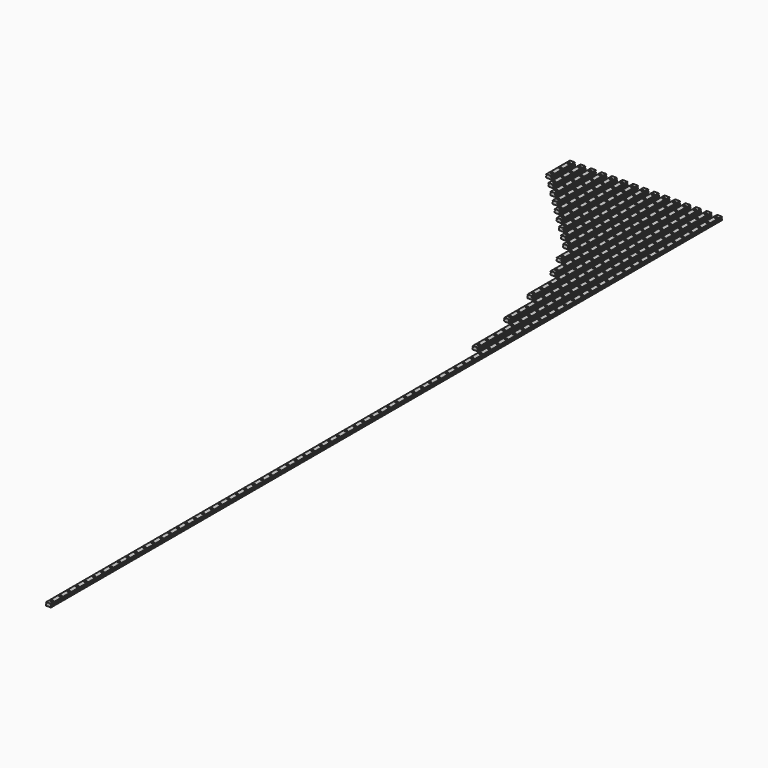
from build123d import *

# Parameters (mm, degrees)
F1_DEPTH           = 70
F2_DEPTH           = 95
F3_DEPTH           = 120
F4_DEPTH           = 145
F5_DEPTH           = 170
F6_DEPTH           = 195
F7_DEPTH           = 220
F8_DEPTH           = 245
F9_DEPTH           = 270
F10_DEPTH          = 320
F11_DEPTH          = 370
F12_DEPTH          = 470
F13_DEPTH          = 570
F14_DEPTH          = 695
F15_DEPTH          = 1995
F17_D              = 3.5
F17_CBORE_D        = 6
F17_CBORE_DEPTH    = 4.5
F17_2_D            = 3.5
F17_2_CBORE_D      = 6
F17_2_CBORE_DEPTH  = 4.5
F17_3_D            = 3.5
F17_3_CBORE_D      = 6
F17_3_CBORE_DEPTH  = 4.5
F17_4_D            = 3.5
F17_4_CBORE_D      = 6
F17_4_CBORE_DEPTH  = 4.5
F17_5_D            = 3.5
F17_5_CBORE_D      = 6
F17_5_CBORE_DEPTH  = 4.5
F17_6_D            = 3.5
F17_6_CBORE_D      = 6
F17_6_CBORE_DEPTH  = 4.5
F17_7_D            = 3.5
F17_7_CBORE_D      = 6
F17_7_CBORE_DEPTH  = 4.5
F17_8_D            = 3.5
F17_8_CBORE_D      = 6
F17_8_CBORE_DEPTH  = 4.5
F17_9_D            = 3.5
F17_9_CBORE_D      = 6
F17_9_CBORE_DEPTH  = 4.5
F17_10_D           = 3.5
F17_10_CBORE_D     = 6
F17_10_CBORE_DEPTH = 4.5
F18_D              = 3.5
F18_CBORE_D        = 6
F18_CBORE_DEPTH    = 4.5
F18_2_D            = 3.5
F18_2_CBORE_D      = 6
F18_2_CBORE_DEPTH  = 4.5
F18_3_D            = 3.5
F18_3_CBORE_D      = 6
F18_3_CBORE_DEPTH  = 4.5
F18_4_D            = 3.5
F18_4_CBORE_D      = 6
F18_4_CBORE_DEPTH  = 4.5
F19_D              = 3.5
F19_CBORE_D        = 6
F19_CBORE_DEPTH    = 4.5


with BuildPart() as f1:
    # F0 (on Front) → F1 (new body)
    with BuildSketch(Plane.XZ):
        with BuildLine():
            Line((-5.505025, -4), (5.505025, -4))
            Line((5.505025, -4), (6, -3.505025))
            Line((6, -3.505025), (6, -0.029885))
            ThreePointArc((6, -0.029885), (5.490975, 0.268452), (5.150061, 0.75))
            Line((5.150061, 0.75), (4.45, 0.75))
            Line((4.45, 0.75), (4.45, 1.85))
            Line((4.45, 1.85), (5.150061, 1.85))
            ThreePointArc((5.150061, 1.85), (5.490975, 2.331548), (6, 2.629885))
            Line((6, 2.629885), (6, 3.505025))
            Line((6, 3.505025), (5.505025, 4))
            Line((5.505025, 4), (-5.505025, 4))
            Line((-5.505025, 4), (-6, 3.505025))
            Line((-6, 3.505025), (-6, 2.629885))
            ThreePointArc((-6, 2.629885), (-5.490975, 2.331548), (-5.150061, 1.85))
            Line((-5.150061, 1.85), (-4.45, 1.85))
            Line((-4.45, 1.85), (-4.45, 0.75))
            Line((-4.45, 0.75), (-5.150061, 0.75))
            ThreePointArc((-5.150061, 0.75), (-5.490975, 0.268452), (-6, -0.029885))
            Line((-6, -0.029885), (-6, -3.505025))
            Line((-6, -3.505025), (-5.505025, -4))
        make_face()
    extrude(amount=F1_DEPTH)

    # F17 (through all)
    with Locations(Plane.XY.offset(4)):
        with Locations((150, -10), (225, -35), (225, -10), (225, -60), (50, -60), (25, -10), (125, -60), (200, -10), (75, -10), (175, -35), (25, -60), (0, -35), (175, -10), (200, -35), (200, -60), (75, -60), (150, -60), (50, -35), (100, -10), (150, -35), (25, -35), (175, -60), (0, -10), (125, -35), (50, -10), (125, -10), (100, -35), (75, -35), (0, -60), (100, -60), (150, -85), (100, -85), (225, -85), (175, -85), (75, -85), (125, -85), (25, -85), (200, -85), (50, -85), (50, -110), (225, -110), (225, -135), (200, -110), (125, -110), (75, -110), (100, -135), (150, -135), (125, -135), (175, -135), (100, -110), (200, -135), (75, -135), (175, -110), (150, -110), (200, -160), (150, -160), (125, -160), (175, -160), (100, -160), (225, -160), (175, -185), (200, -185), (150, -185), (125, -185), (225, -185), (200, -260), (225, -310), (225, -260), (225, -285), (150, -210), (200, -235), (225, -210), (225, -235), (200, -210), (175, -235), (175, -210)):
            CounterBoreHole(F17_D / 2, F17_CBORE_D / 2, F17_CBORE_DEPTH)


with BuildPart() as f2:
    # F0 (on Front) → F2 (new body)
    with BuildSketch(Plane.XZ):
        with BuildLine():
            Line((19, -0.029885), (19, -3.505025))
            Line((19, -3.505025), (19.494975, -4))
            Line((19.494975, -4), (30.505025, -4))
            Line((30.505025, -4), (31, -3.505025))
            Line((31, -3.505025), (31, -0.029885))
            ThreePointArc((31, -0.029885), (30.490975, 0.268452), (30.150061, 0.75))
            Line((30.150061, 0.75), (29.45, 0.75))
            Line((29.45, 0.75), (29.45, 1.85))
            Line((29.45, 1.85), (30.150061, 1.85))
            ThreePointArc((30.150061, 1.85), (30.490975, 2.331548), (31, 2.629885))
            Line((31, 2.629885), (31, 3.505025))
            Line((31, 3.505025), (30.505025, 4))
            Line((30.505025, 4), (19.494975, 4))
            Line((19.494975, 4), (19, 3.505025))
            Line((19, 3.505025), (19, 2.629885))
            ThreePointArc((19, 2.629885), (19.509025, 2.331548), (19.849939, 1.85))
            Line((19.849939, 1.85), (20.55, 1.85))
            Line((20.55, 1.85), (20.55, 0.75))
            Line((20.55, 0.75), (19.849939, 0.75))
            ThreePointArc((19.849939, 0.75), (19.509025, 0.268452), (19, -0.029885))
        make_face()
    extrude(amount=F2_DEPTH)

    # F17#2 (through all)
    with Locations(Plane.XY.offset(4)):
        with Locations((150, -10), (225, -35), (225, -10), (225, -60), (50, -60), (25, -10), (125, -60), (200, -10), (75, -10), (175, -35), (25, -60), (0, -35), (175, -10), (200, -35), (200, -60), (75, -60), (150, -60), (50, -35), (100, -10), (150, -35), (25, -35), (175, -60), (0, -10), (125, -35), (50, -10), (125, -10), (100, -35), (75, -35), (0, -60), (100, -60), (150, -85), (100, -85), (225, -85), (175, -85), (75, -85), (125, -85), (25, -85), (200, -85), (50, -85), (50, -110), (225, -110), (225, -135), (200, -110), (125, -110), (75, -110), (100, -135), (150, -135), (125, -135), (175, -135), (100, -110), (200, -135), (75, -135), (175, -110), (150, -110), (200, -160), (150, -160), (125, -160), (175, -160), (100, -160), (225, -160), (175, -185), (200, -185), (150, -185), (125, -185), (225, -185), (200, -260), (225, -310), (225, -260), (225, -285), (150, -210), (200, -235), (225, -210), (225, -235), (200, -210), (175, -235), (175, -210)):
            CounterBoreHole(F17_2_D / 2, F17_2_CBORE_D / 2, F17_2_CBORE_DEPTH)


with BuildPart() as f3:
    # F0 (on Front) → F3 (new body)
    with BuildSketch(Plane.XZ):
        with BuildLine():
            Line((44, -0.029885), (44, -3.505025))
            Line((44, -3.505025), (44.494975, -4))
            Line((44.494975, -4), (55.505025, -4))
            Line((55.505025, -4), (56, -3.505025))
            Line((56, -3.505025), (56, -0.029885))
            ThreePointArc((56, -0.029885), (55.490975, 0.268452), (55.150061, 0.75))
            Line((55.150061, 0.75), (54.45, 0.75))
            Line((54.45, 0.75), (54.45, 1.85))
            Line((54.45, 1.85), (55.150061, 1.85))
            ThreePointArc((55.150061, 1.85), (55.490975, 2.331548), (56, 2.629885))
            Line((56, 2.629885), (56, 3.505025))
            Line((56, 3.505025), (55.505025, 4))
            Line((55.505025, 4), (44.494975, 4))
            Line((44.494975, 4), (44, 3.505025))
            Line((44, 3.505025), (44, 2.629885))
            ThreePointArc((44, 2.629885), (44.509025, 2.331548), (44.849939, 1.85))
            Line((44.849939, 1.85), (45.55, 1.85))
            Line((45.55, 1.85), (45.55, 0.75))
            Line((45.55, 0.75), (44.849939, 0.75))
            ThreePointArc((44.849939, 0.75), (44.509025, 0.268452), (44, -0.029885))
        make_face()
    extrude(amount=F3_DEPTH)

    # F17#3 (through all)
    with Locations(Plane.XY.offset(4)):
        with Locations((150, -10), (225, -35), (225, -10), (225, -60), (50, -60), (25, -10), (125, -60), (200, -10), (75, -10), (175, -35), (25, -60), (0, -35), (175, -10), (200, -35), (200, -60), (75, -60), (150, -60), (50, -35), (100, -10), (150, -35), (25, -35), (175, -60), (0, -10), (125, -35), (50, -10), (125, -10), (100, -35), (75, -35), (0, -60), (100, -60), (150, -85), (100, -85), (225, -85), (175, -85), (75, -85), (125, -85), (25, -85), (200, -85), (50, -85), (50, -110), (225, -110), (225, -135), (200, -110), (125, -110), (75, -110), (100, -135), (150, -135), (125, -135), (175, -135), (100, -110), (200, -135), (75, -135), (175, -110), (150, -110), (200, -160), (150, -160), (125, -160), (175, -160), (100, -160), (225, -160), (175, -185), (200, -185), (150, -185), (125, -185), (225, -185), (200, -260), (225, -310), (225, -260), (225, -285), (150, -210), (200, -235), (225, -210), (225, -235), (200, -210), (175, -235), (175, -210)):
            CounterBoreHole(F17_3_D / 2, F17_3_CBORE_D / 2, F17_3_CBORE_DEPTH)


with BuildPart() as f4:
    # F0 (on Front) → F4 (new body)
    with BuildSketch(Plane.XZ):
        with BuildLine():
            Line((69, -0.029885), (69, -3.505025))
            Line((69, -3.505025), (69.494975, -4))
            Line((69.494975, -4), (80.505025, -4))
            Line((80.505025, -4), (81, -3.505025))
            Line((81, -3.505025), (81, -0.029885))
            ThreePointArc((81, -0.029885), (80.490975, 0.268452), (80.150061, 0.75))
            Line((80.150061, 0.75), (79.45, 0.75))
            Line((79.45, 0.75), (79.45, 1.85))
            Line((79.45, 1.85), (80.150061, 1.85))
            ThreePointArc((80.150061, 1.85), (80.490975, 2.331548), (81, 2.629885))
            Line((81, 2.629885), (81, 3.505025))
            Line((81, 3.505025), (80.505025, 4))
            Line((80.505025, 4), (69.494975, 4))
            Line((69.494975, 4), (69, 3.505025))
            Line((69, 3.505025), (69, 2.629885))
            ThreePointArc((69, 2.629885), (69.509025, 2.331548), (69.849939, 1.85))
            Line((69.849939, 1.85), (70.55, 1.85))
            Line((70.55, 1.85), (70.55, 0.75))
            Line((70.55, 0.75), (69.849939, 0.75))
            ThreePointArc((69.849939, 0.75), (69.509025, 0.268452), (69, -0.029885))
        make_face()
    extrude(amount=F4_DEPTH)

    # F17#4 (through all)
    with Locations(Plane.XY.offset(4)):
        with Locations((150, -10), (225, -35), (225, -10), (225, -60), (50, -60), (25, -10), (125, -60), (200, -10), (75, -10), (175, -35), (25, -60), (0, -35), (175, -10), (200, -35), (200, -60), (75, -60), (150, -60), (50, -35), (100, -10), (150, -35), (25, -35), (175, -60), (0, -10), (125, -35), (50, -10), (125, -10), (100, -35), (75, -35), (0, -60), (100, -60), (150, -85), (100, -85), (225, -85), (175, -85), (75, -85), (125, -85), (25, -85), (200, -85), (50, -85), (50, -110), (225, -110), (225, -135), (200, -110), (125, -110), (75, -110), (100, -135), (150, -135), (125, -135), (175, -135), (100, -110), (200, -135), (75, -135), (175, -110), (150, -110), (200, -160), (150, -160), (125, -160), (175, -160), (100, -160), (225, -160), (175, -185), (200, -185), (150, -185), (125, -185), (225, -185), (200, -260), (225, -310), (225, -260), (225, -285), (150, -210), (200, -235), (225, -210), (225, -235), (200, -210), (175, -235), (175, -210)):
            CounterBoreHole(F17_4_D / 2, F17_4_CBORE_D / 2, F17_4_CBORE_DEPTH)


with BuildPart() as f5:
    # F0 (on Front) → F5 (new body)
    with BuildSketch(Plane.XZ):
        with BuildLine():
            Line((94, -0.029885), (94, -3.505025))
            Line((94, -3.505025), (94.494975, -4))
            Line((94.494975, -4), (105.505025, -4))
            Line((105.505025, -4), (106, -3.505025))
            Line((106, -3.505025), (106, -0.029885))
            ThreePointArc((106, -0.029885), (105.490975, 0.268452), (105.150061, 0.75))
            Line((105.150061, 0.75), (104.45, 0.75))
            Line((104.45, 0.75), (104.45, 1.85))
            Line((104.45, 1.85), (105.150061, 1.85))
            ThreePointArc((105.150061, 1.85), (105.490975, 2.331548), (106, 2.629885))
            Line((106, 2.629885), (106, 3.505025))
            Line((106, 3.505025), (105.505025, 4))
            Line((105.505025, 4), (94.494975, 4))
            Line((94.494975, 4), (94, 3.505025))
            Line((94, 3.505025), (94, 2.629885))
            ThreePointArc((94, 2.629885), (94.509025, 2.331548), (94.849939, 1.85))
            Line((94.849939, 1.85), (95.55, 1.85))
            Line((95.55, 1.85), (95.55, 0.75))
            Line((95.55, 0.75), (94.849939, 0.75))
            ThreePointArc((94.849939, 0.75), (94.509025, 0.268452), (94, -0.029885))
        make_face()
    extrude(amount=F5_DEPTH)

    # F17#5 (through all)
    with Locations(Plane.XY.offset(4)):
        with Locations((150, -10), (225, -35), (225, -10), (225, -60), (50, -60), (25, -10), (125, -60), (200, -10), (75, -10), (175, -35), (25, -60), (0, -35), (175, -10), (200, -35), (200, -60), (75, -60), (150, -60), (50, -35), (100, -10), (150, -35), (25, -35), (175, -60), (0, -10), (125, -35), (50, -10), (125, -10), (100, -35), (75, -35), (0, -60), (100, -60), (150, -85), (100, -85), (225, -85), (175, -85), (75, -85), (125, -85), (25, -85), (200, -85), (50, -85), (50, -110), (225, -110), (225, -135), (200, -110), (125, -110), (75, -110), (100, -135), (150, -135), (125, -135), (175, -135), (100, -110), (200, -135), (75, -135), (175, -110), (150, -110), (200, -160), (150, -160), (125, -160), (175, -160), (100, -160), (225, -160), (175, -185), (200, -185), (150, -185), (125, -185), (225, -185), (200, -260), (225, -310), (225, -260), (225, -285), (150, -210), (200, -235), (225, -210), (225, -235), (200, -210), (175, -235), (175, -210)):
            CounterBoreHole(F17_5_D / 2, F17_5_CBORE_D / 2, F17_5_CBORE_DEPTH)


with BuildPart() as f6:
    # F0 (on Front) → F6 (new body)
    with BuildSketch(Plane.XZ):
        with BuildLine():
            Line((119, -0.029885), (119, -3.505025))
            Line((119, -3.505025), (119.494975, -4))
            Line((119.494975, -4), (130.505025, -4))
            Line((130.505025, -4), (131, -3.505025))
            Line((131, -3.505025), (131, -0.029885))
            ThreePointArc((131, -0.029885), (130.490975, 0.268452), (130.150061, 0.75))
            Line((130.150061, 0.75), (129.45, 0.75))
            Line((129.45, 0.75), (129.45, 1.85))
            Line((129.45, 1.85), (130.150061, 1.85))
            ThreePointArc((130.150061, 1.85), (130.490975, 2.331548), (131, 2.629885))
            Line((131, 2.629885), (131, 3.505025))
            Line((131, 3.505025), (130.505025, 4))
            Line((130.505025, 4), (119.494975, 4))
            Line((119.494975, 4), (119, 3.505025))
            Line((119, 3.505025), (119, 2.629885))
            ThreePointArc((119, 2.629885), (119.509025, 2.331548), (119.849939, 1.85))
            Line((119.849939, 1.85), (120.55, 1.85))
            Line((120.55, 1.85), (120.55, 0.75))
            Line((120.55, 0.75), (119.849939, 0.75))
            ThreePointArc((119.849939, 0.75), (119.509025, 0.268452), (119, -0.029885))
        make_face()
    extrude(amount=F6_DEPTH)

    # F17#6 (through all)
    with Locations(Plane.XY.offset(4)):
        with Locations((150, -10), (225, -35), (225, -10), (225, -60), (50, -60), (25, -10), (125, -60), (200, -10), (75, -10), (175, -35), (25, -60), (0, -35), (175, -10), (200, -35), (200, -60), (75, -60), (150, -60), (50, -35), (100, -10), (150, -35), (25, -35), (175, -60), (0, -10), (125, -35), (50, -10), (125, -10), (100, -35), (75, -35), (0, -60), (100, -60), (150, -85), (100, -85), (225, -85), (175, -85), (75, -85), (125, -85), (25, -85), (200, -85), (50, -85), (50, -110), (225, -110), (225, -135), (200, -110), (125, -110), (75, -110), (100, -135), (150, -135), (125, -135), (175, -135), (100, -110), (200, -135), (75, -135), (175, -110), (150, -110), (200, -160), (150, -160), (125, -160), (175, -160), (100, -160), (225, -160), (175, -185), (200, -185), (150, -185), (125, -185), (225, -185), (200, -260), (225, -310), (225, -260), (225, -285), (150, -210), (200, -235), (225, -210), (225, -235), (200, -210), (175, -235), (175, -210)):
            CounterBoreHole(F17_6_D / 2, F17_6_CBORE_D / 2, F17_6_CBORE_DEPTH)


with BuildPart() as f7:
    # F0 (on Front) → F7 (new body)
    with BuildSketch(Plane.XZ):
        with BuildLine():
            Line((144, -0.029885), (144, -3.505025))
            Line((144, -3.505025), (144.494975, -4))
            Line((144.494975, -4), (155.505025, -4))
            Line((155.505025, -4), (156, -3.505025))
            Line((156, -3.505025), (156, -0.029885))
            ThreePointArc((156, -0.029885), (155.490975, 0.268452), (155.150061, 0.75))
            Line((155.150061, 0.75), (154.45, 0.75))
            Line((154.45, 0.75), (154.45, 1.85))
            Line((154.45, 1.85), (155.150061, 1.85))
            ThreePointArc((155.150061, 1.85), (155.490975, 2.331548), (156, 2.629885))
            Line((156, 2.629885), (156, 3.505025))
            Line((156, 3.505025), (155.505025, 4))
            Line((155.505025, 4), (144.494975, 4))
            Line((144.494975, 4), (144, 3.505025))
            Line((144, 3.505025), (144, 2.629885))
            ThreePointArc((144, 2.629885), (144.509025, 2.331548), (144.849939, 1.85))
            Line((144.849939, 1.85), (145.55, 1.85))
            Line((145.55, 1.85), (145.55, 0.75))
            Line((145.55, 0.75), (144.849939, 0.75))
            ThreePointArc((144.849939, 0.75), (144.509025, 0.268452), (144, -0.029885))
        make_face()
    extrude(amount=F7_DEPTH)

    # F17#7 (through all)
    with Locations(Plane.XY.offset(4)):
        with Locations((150, -10), (225, -35), (225, -10), (225, -60), (50, -60), (25, -10), (125, -60), (200, -10), (75, -10), (175, -35), (25, -60), (0, -35), (175, -10), (200, -35), (200, -60), (75, -60), (150, -60), (50, -35), (100, -10), (150, -35), (25, -35), (175, -60), (0, -10), (125, -35), (50, -10), (125, -10), (100, -35), (75, -35), (0, -60), (100, -60), (150, -85), (100, -85), (225, -85), (175, -85), (75, -85), (125, -85), (25, -85), (200, -85), (50, -85), (50, -110), (225, -110), (225, -135), (200, -110), (125, -110), (75, -110), (100, -135), (150, -135), (125, -135), (175, -135), (100, -110), (200, -135), (75, -135), (175, -110), (150, -110), (200, -160), (150, -160), (125, -160), (175, -160), (100, -160), (225, -160), (175, -185), (200, -185), (150, -185), (125, -185), (225, -185), (200, -260), (225, -310), (225, -260), (225, -285), (150, -210), (200, -235), (225, -210), (225, -235), (200, -210), (175, -235), (175, -210)):
            CounterBoreHole(F17_7_D / 2, F17_7_CBORE_D / 2, F17_7_CBORE_DEPTH)


with BuildPart() as f8:
    # F0 (on Front) → F8 (new body)
    with BuildSketch(Plane.XZ):
        with BuildLine():
            Line((169, -0.029885), (169, -3.505025))
            Line((169, -3.505025), (169.494975, -4))
            Line((169.494975, -4), (180.505025, -4))
            Line((180.505025, -4), (181, -3.505025))
            Line((181, -3.505025), (181, -0.029885))
            ThreePointArc((181, -0.029885), (180.490975, 0.268452), (180.150061, 0.75))
            Line((180.150061, 0.75), (179.45, 0.75))
            Line((179.45, 0.75), (179.45, 1.85))
            Line((179.45, 1.85), (180.150061, 1.85))
            ThreePointArc((180.150061, 1.85), (180.490975, 2.331548), (181, 2.629885))
            Line((181, 2.629885), (181, 3.505025))
            Line((181, 3.505025), (180.505025, 4))
            Line((180.505025, 4), (169.494975, 4))
            Line((169.494975, 4), (169, 3.505025))
            Line((169, 3.505025), (169, 2.629885))
            ThreePointArc((169, 2.629885), (169.509025, 2.331548), (169.849939, 1.85))
            Line((169.849939, 1.85), (170.55, 1.85))
            Line((170.55, 1.85), (170.55, 0.75))
            Line((170.55, 0.75), (169.849939, 0.75))
            ThreePointArc((169.849939, 0.75), (169.509025, 0.268452), (169, -0.029885))
        make_face()
    extrude(amount=F8_DEPTH)

    # F17#8 (through all)
    with Locations(Plane.XY.offset(4)):
        with Locations((150, -10), (225, -35), (225, -10), (225, -60), (50, -60), (25, -10), (125, -60), (200, -10), (75, -10), (175, -35), (25, -60), (0, -35), (175, -10), (200, -35), (200, -60), (75, -60), (150, -60), (50, -35), (100, -10), (150, -35), (25, -35), (175, -60), (0, -10), (125, -35), (50, -10), (125, -10), (100, -35), (75, -35), (0, -60), (100, -60), (150, -85), (100, -85), (225, -85), (175, -85), (75, -85), (125, -85), (25, -85), (200, -85), (50, -85), (50, -110), (225, -110), (225, -135), (200, -110), (125, -110), (75, -110), (100, -135), (150, -135), (125, -135), (175, -135), (100, -110), (200, -135), (75, -135), (175, -110), (150, -110), (200, -160), (150, -160), (125, -160), (175, -160), (100, -160), (225, -160), (175, -185), (200, -185), (150, -185), (125, -185), (225, -185), (200, -260), (225, -310), (225, -260), (225, -285), (150, -210), (200, -235), (225, -210), (225, -235), (200, -210), (175, -235), (175, -210)):
            CounterBoreHole(F17_8_D / 2, F17_8_CBORE_D / 2, F17_8_CBORE_DEPTH)


with BuildPart() as f9:
    # F0 (on Front) → F9 (new body)
    with BuildSketch(Plane.XZ):
        with BuildLine():
            Line((194, -0.029885), (194, -3.505025))
            Line((194, -3.505025), (194.494975, -4))
            Line((194.494975, -4), (205.505025, -4))
            Line((205.505025, -4), (206, -3.505025))
            Line((206, -3.505025), (206, -0.029885))
            ThreePointArc((206, -0.029885), (205.490975, 0.268452), (205.150061, 0.75))
            Line((205.150061, 0.75), (204.45, 0.75))
            Line((204.45, 0.75), (204.45, 1.85))
            Line((204.45, 1.85), (205.150061, 1.85))
            ThreePointArc((205.150061, 1.85), (205.490975, 2.331548), (206, 2.629885))
            Line((206, 2.629885), (206, 3.505025))
            Line((206, 3.505025), (205.505025, 4))
            Line((205.505025, 4), (194.494975, 4))
            Line((194.494975, 4), (194, 3.505025))
            Line((194, 3.505025), (194, 2.629885))
            ThreePointArc((194, 2.629885), (194.509025, 2.331548), (194.849939, 1.85))
            Line((194.849939, 1.85), (195.55, 1.85))
            Line((195.55, 1.85), (195.55, 0.75))
            Line((195.55, 0.75), (194.849939, 0.75))
            ThreePointArc((194.849939, 0.75), (194.509025, 0.268452), (194, -0.029885))
        make_face()
    extrude(amount=F9_DEPTH)

    # F17#9 (through all)
    with Locations(Plane.XY.offset(4)):
        with Locations((150, -10), (225, -35), (225, -10), (225, -60), (50, -60), (25, -10), (125, -60), (200, -10), (75, -10), (175, -35), (25, -60), (0, -35), (175, -10), (200, -35), (200, -60), (75, -60), (150, -60), (50, -35), (100, -10), (150, -35), (25, -35), (175, -60), (0, -10), (125, -35), (50, -10), (125, -10), (100, -35), (75, -35), (0, -60), (100, -60), (150, -85), (100, -85), (225, -85), (175, -85), (75, -85), (125, -85), (25, -85), (200, -85), (50, -85), (50, -110), (225, -110), (225, -135), (200, -110), (125, -110), (75, -110), (100, -135), (150, -135), (125, -135), (175, -135), (100, -110), (200, -135), (75, -135), (175, -110), (150, -110), (200, -160), (150, -160), (125, -160), (175, -160), (100, -160), (225, -160), (175, -185), (200, -185), (150, -185), (125, -185), (225, -185), (200, -260), (225, -310), (225, -260), (225, -285), (150, -210), (200, -235), (225, -210), (225, -235), (200, -210), (175, -235), (175, -210)):
            CounterBoreHole(F17_9_D / 2, F17_9_CBORE_D / 2, F17_9_CBORE_DEPTH)


with BuildPart() as f10:
    # F0 (on Front) → F10 (new body)
    with BuildSketch(Plane.XZ):
        with BuildLine():
            Line((219, -0.029885), (219, -3.505025))
            Line((219, -3.505025), (219.494975, -4))
            Line((219.494975, -4), (230.505025, -4))
            Line((230.505025, -4), (231, -3.505025))
            Line((231, -3.505025), (231, -0.029885))
            ThreePointArc((231, -0.029885), (230.490975, 0.268452), (230.150061, 0.75))
            Line((230.150061, 0.75), (229.45, 0.75))
            Line((229.45, 0.75), (229.45, 1.85))
            Line((229.45, 1.85), (230.150061, 1.85))
            ThreePointArc((230.150061, 1.85), (230.490975, 2.331548), (231, 2.629885))
            Line((231, 2.629885), (231, 3.505025))
            Line((231, 3.505025), (230.505025, 4))
            Line((230.505025, 4), (219.494975, 4))
            Line((219.494975, 4), (219, 3.505025))
            Line((219, 3.505025), (219, 2.629885))
            ThreePointArc((219, 2.629885), (219.509025, 2.331548), (219.849939, 1.85))
            Line((219.849939, 1.85), (220.55, 1.85))
            Line((220.55, 1.85), (220.55, 0.75))
            Line((220.55, 0.75), (219.849939, 0.75))
            ThreePointArc((219.849939, 0.75), (219.509025, 0.268452), (219, -0.029885))
        make_face()
    extrude(amount=F10_DEPTH)

    # F17#10 (through all)
    with Locations(Plane.XY.offset(4)):
        with Locations((150, -10), (225, -35), (225, -10), (225, -60), (50, -60), (25, -10), (125, -60), (200, -10), (75, -10), (175, -35), (25, -60), (0, -35), (175, -10), (200, -35), (200, -60), (75, -60), (150, -60), (50, -35), (100, -10), (150, -35), (25, -35), (175, -60), (0, -10), (125, -35), (50, -10), (125, -10), (100, -35), (75, -35), (0, -60), (100, -60), (150, -85), (100, -85), (225, -85), (175, -85), (75, -85), (125, -85), (25, -85), (200, -85), (50, -85), (50, -110), (225, -110), (225, -135), (200, -110), (125, -110), (75, -110), (100, -135), (150, -135), (125, -135), (175, -135), (100, -110), (200, -135), (75, -135), (175, -110), (150, -110), (200, -160), (150, -160), (125, -160), (175, -160), (100, -160), (225, -160), (175, -185), (200, -185), (150, -185), (125, -185), (225, -185), (200, -260), (225, -310), (225, -260), (225, -285), (150, -210), (200, -235), (225, -210), (225, -235), (200, -210), (175, -235), (175, -210)):
            CounterBoreHole(F17_10_D / 2, F17_10_CBORE_D / 2, F17_10_CBORE_DEPTH)


with BuildPart() as f11:
    # F0 (on Front) → F11 (new body)
    with BuildSketch(Plane.XZ):
        with BuildLine():
            Line((244, -0.029885), (244, -3.505025))
            Line((244, -3.505025), (244.494975, -4))
            Line((244.494975, -4), (255.505025, -4))
            Line((255.505025, -4), (256, -3.505025))
            Line((256, -3.505025), (256, -0.029885))
            ThreePointArc((256, -0.029885), (255.490975, 0.268452), (255.150061, 0.75))
            Line((255.150061, 0.75), (254.45, 0.75))
            Line((254.45, 0.75), (254.45, 1.85))
            Line((254.45, 1.85), (255.150061, 1.85))
            ThreePointArc((255.150061, 1.85), (255.490975, 2.331548), (256, 2.629885))
            Line((256, 2.629885), (256, 3.505025))
            Line((256, 3.505025), (255.505025, 4))
            Line((255.505025, 4), (244.494975, 4))
            Line((244.494975, 4), (244, 3.505025))
            Line((244, 3.505025), (244, 2.629885))
            ThreePointArc((244, 2.629885), (244.509025, 2.331548), (244.849939, 1.85))
            Line((244.849939, 1.85), (245.55, 1.85))
            Line((245.55, 1.85), (245.55, 0.75))
            Line((245.55, 0.75), (244.849939, 0.75))
            ThreePointArc((244.849939, 0.75), (244.509025, 0.268452), (244, -0.029885))
        make_face()
    extrude(amount=F11_DEPTH)

    # F18 (through all)
    with Locations(Plane.XY.offset(4)):
        with Locations((250, -85), (250, -110), (250, -210), (250, -185), (250, -260), (250, -310), (250, -135), (250, -35), (250, -285), (250, -360), (250, -60), (250, -160), (250, -10), (250, -235), (250, -335), (275, -460), (275, -60), (275, -285), (275, -10), (275, -410), (275, -210), (275, -35), (275, -435), (275, -335), (275, -235), (275, -135), (275, -310), (275, -110), (275, -385), (275, -185), (275, -160), (275, -85), (275, -360), (275, -260), (300, -410), (300, -310), (300, -535), (300, -510), (300, -235), (300, -335), (300, -260), (300, -385), (300, -110), (300, -35), (300, -210), (300, -485), (300, -85), (300, -185), (300, -460), (300, -560), (300, -60), (300, -160), (300, -435), (300, -360), (300, -10), (300, -135), (300, -285), (325, -60), (325, -635), (325, -410), (325, -535), (325, -335), (325, -260), (325, -560), (325, -385), (325, -660), (325, -110), (325, -10), (325, -435), (325, -135), (325, -160), (325, -35), (325, -185), (325, -460), (325, -510), (325, -310), (325, -285), (325, -235), (325, -585), (325, -610), (325, -360), (325, -685), (325, -85), (325, -485), (325, -210)):
            CounterBoreHole(F18_D / 2, F18_CBORE_D / 2, F18_CBORE_DEPTH)


with BuildPart() as f12:
    # F0 (on Front) → F12 (new body)
    with BuildSketch(Plane.XZ):
        with BuildLine():
            Line((269, -0.029885), (269, -3.505025))
            Line((269, -3.505025), (269.494975, -4))
            Line((269.494975, -4), (280.505025, -4))
            Line((280.505025, -4), (281, -3.505025))
            Line((281, -3.505025), (281, -0.029885))
            ThreePointArc((281, -0.029885), (280.490975, 0.268452), (280.150061, 0.75))
            Line((280.150061, 0.75), (279.45, 0.75))
            Line((279.45, 0.75), (279.45, 1.85))
            Line((279.45, 1.85), (280.150061, 1.85))
            ThreePointArc((280.150061, 1.85), (280.490975, 2.331548), (281, 2.629885))
            Line((281, 2.629885), (281, 3.505025))
            Line((281, 3.505025), (280.505025, 4))
            Line((280.505025, 4), (269.494975, 4))
            Line((269.494975, 4), (269, 3.505025))
            Line((269, 3.505025), (269, 2.629885))
            ThreePointArc((269, 2.629885), (269.509025, 2.331548), (269.849939, 1.85))
            Line((269.849939, 1.85), (270.55, 1.85))
            Line((270.55, 1.85), (270.55, 0.75))
            Line((270.55, 0.75), (269.849939, 0.75))
            ThreePointArc((269.849939, 0.75), (269.509025, 0.268452), (269, -0.029885))
        make_face()
    extrude(amount=F12_DEPTH)

    # F18#2 (through all)
    with Locations(Plane.XY.offset(4)):
        with Locations((250, -85), (250, -110), (250, -210), (250, -185), (250, -260), (250, -310), (250, -135), (250, -35), (250, -285), (250, -360), (250, -60), (250, -160), (250, -10), (250, -235), (250, -335), (275, -460), (275, -60), (275, -285), (275, -10), (275, -410), (275, -210), (275, -35), (275, -435), (275, -335), (275, -235), (275, -135), (275, -310), (275, -110), (275, -385), (275, -185), (275, -160), (275, -85), (275, -360), (275, -260), (300, -410), (300, -310), (300, -535), (300, -510), (300, -235), (300, -335), (300, -260), (300, -385), (300, -110), (300, -35), (300, -210), (300, -485), (300, -85), (300, -185), (300, -460), (300, -560), (300, -60), (300, -160), (300, -435), (300, -360), (300, -10), (300, -135), (300, -285), (325, -60), (325, -635), (325, -410), (325, -535), (325, -335), (325, -260), (325, -560), (325, -385), (325, -660), (325, -110), (325, -10), (325, -435), (325, -135), (325, -160), (325, -35), (325, -185), (325, -460), (325, -510), (325, -310), (325, -285), (325, -235), (325, -585), (325, -610), (325, -360), (325, -685), (325, -85), (325, -485), (325, -210)):
            CounterBoreHole(F18_2_D / 2, F18_2_CBORE_D / 2, F18_2_CBORE_DEPTH)


with BuildPart() as f13:
    # F0 (on Front) → F13 (new body)
    with BuildSketch(Plane.XZ):
        with BuildLine():
            Line((294, -0.029885), (294, -3.505025))
            Line((294, -3.505025), (294.494975, -4))
            Line((294.494975, -4), (305.505025, -4))
            Line((305.505025, -4), (306, -3.505025))
            Line((306, -3.505025), (306, -0.029885))
            ThreePointArc((306, -0.029885), (305.490975, 0.268452), (305.150061, 0.75))
            Line((305.150061, 0.75), (304.45, 0.75))
            Line((304.45, 0.75), (304.45, 1.85))
            Line((304.45, 1.85), (305.150061, 1.85))
            ThreePointArc((305.150061, 1.85), (305.490975, 2.331548), (306, 2.629885))
            Line((306, 2.629885), (306, 3.505025))
            Line((306, 3.505025), (305.505025, 4))
            Line((305.505025, 4), (294.494975, 4))
            Line((294.494975, 4), (294, 3.505025))
            Line((294, 3.505025), (294, 2.629885))
            ThreePointArc((294, 2.629885), (294.509025, 2.331548), (294.849939, 1.85))
            Line((294.849939, 1.85), (295.55, 1.85))
            Line((295.55, 1.85), (295.55, 0.75))
            Line((295.55, 0.75), (294.849939, 0.75))
            ThreePointArc((294.849939, 0.75), (294.509025, 0.268452), (294, -0.029885))
        make_face()
    extrude(amount=F13_DEPTH)

    # F18#3 (through all)
    with Locations(Plane.XY.offset(4)):
        with Locations((250, -85), (250, -110), (250, -210), (250, -185), (250, -260), (250, -310), (250, -135), (250, -35), (250, -285), (250, -360), (250, -60), (250, -160), (250, -10), (250, -235), (250, -335), (275, -460), (275, -60), (275, -285), (275, -10), (275, -410), (275, -210), (275, -35), (275, -435), (275, -335), (275, -235), (275, -135), (275, -310), (275, -110), (275, -385), (275, -185), (275, -160), (275, -85), (275, -360), (275, -260), (300, -410), (300, -310), (300, -535), (300, -510), (300, -235), (300, -335), (300, -260), (300, -385), (300, -110), (300, -35), (300, -210), (300, -485), (300, -85), (300, -185), (300, -460), (300, -560), (300, -60), (300, -160), (300, -435), (300, -360), (300, -10), (300, -135), (300, -285), (325, -60), (325, -635), (325, -410), (325, -535), (325, -335), (325, -260), (325, -560), (325, -385), (325, -660), (325, -110), (325, -10), (325, -435), (325, -135), (325, -160), (325, -35), (325, -185), (325, -460), (325, -510), (325, -310), (325, -285), (325, -235), (325, -585), (325, -610), (325, -360), (325, -685), (325, -85), (325, -485), (325, -210)):
            CounterBoreHole(F18_3_D / 2, F18_3_CBORE_D / 2, F18_3_CBORE_DEPTH)


with BuildPart() as f14:
    # F0 (on Front) → F14 (new body)
    with BuildSketch(Plane.XZ):
        with BuildLine():
            Line((319, -0.029885), (319, -3.505025))
            Line((319, -3.505025), (319.494975, -4))
            Line((319.494975, -4), (330.505025, -4))
            Line((330.505025, -4), (331, -3.505025))
            Line((331, -3.505025), (331, -0.029885))
            ThreePointArc((331, -0.029885), (330.490975, 0.268452), (330.150061, 0.75))
            Line((330.150061, 0.75), (329.45, 0.75))
            Line((329.45, 0.75), (329.45, 1.85))
            Line((329.45, 1.85), (330.150061, 1.85))
            ThreePointArc((330.150061, 1.85), (330.490975, 2.331548), (331, 2.629885))
            Line((331, 2.629885), (331, 3.505025))
            Line((331, 3.505025), (330.505025, 4))
            Line((330.505025, 4), (319.494975, 4))
            Line((319.494975, 4), (319, 3.505025))
            Line((319, 3.505025), (319, 2.629885))
            ThreePointArc((319, 2.629885), (319.509025, 2.331548), (319.849939, 1.85))
            Line((319.849939, 1.85), (320.55, 1.85))
            Line((320.55, 1.85), (320.55, 0.75))
            Line((320.55, 0.75), (319.849939, 0.75))
            ThreePointArc((319.849939, 0.75), (319.509025, 0.268452), (319, -0.029885))
        make_face()
    extrude(amount=F14_DEPTH)

    # F18#4 (through all)
    with Locations(Plane.XY.offset(4)):
        with Locations((250, -85), (250, -110), (250, -210), (250, -185), (250, -260), (250, -310), (250, -135), (250, -35), (250, -285), (250, -360), (250, -60), (250, -160), (250, -10), (250, -235), (250, -335), (275, -460), (275, -60), (275, -285), (275, -10), (275, -410), (275, -210), (275, -35), (275, -435), (275, -335), (275, -235), (275, -135), (275, -310), (275, -110), (275, -385), (275, -185), (275, -160), (275, -85), (275, -360), (275, -260), (300, -410), (300, -310), (300, -535), (300, -510), (300, -235), (300, -335), (300, -260), (300, -385), (300, -110), (300, -35), (300, -210), (300, -485), (300, -85), (300, -185), (300, -460), (300, -560), (300, -60), (300, -160), (300, -435), (300, -360), (300, -10), (300, -135), (300, -285), (325, -60), (325, -635), (325, -410), (325, -535), (325, -335), (325, -260), (325, -560), (325, -385), (325, -660), (325, -110), (325, -10), (325, -435), (325, -135), (325, -160), (325, -35), (325, -185), (325, -460), (325, -510), (325, -310), (325, -285), (325, -235), (325, -585), (325, -610), (325, -360), (325, -685), (325, -85), (325, -485), (325, -210)):
            CounterBoreHole(F18_4_D / 2, F18_4_CBORE_D / 2, F18_4_CBORE_DEPTH)


with BuildPart() as f15:
    # F0 (on Front) → F15 (new body)
    with BuildSketch(Plane.XZ):
        with BuildLine():
            Line((344, -0.029885), (344, -3.505025))
            Line((344, -3.505025), (344.494975, -4))
            Line((344.494975, -4), (355.505025, -4))
            Line((355.505025, -4), (356, -3.505025))
            Line((356, -3.505025), (356, -0.029885))
            ThreePointArc((356, -0.029885), (355.490975, 0.268452), (355.150061, 0.75))
            Line((355.150061, 0.75), (354.45, 0.75))
            Line((354.45, 0.75), (354.45, 1.85))
            Line((354.45, 1.85), (355.150061, 1.85))
            ThreePointArc((355.150061, 1.85), (355.490975, 2.331548), (356, 2.629885))
            Line((356, 2.629885), (356, 3.505025))
            Line((356, 3.505025), (355.505025, 4))
            Line((355.505025, 4), (344.494975, 4))
            Line((344.494975, 4), (344, 3.505025))
            Line((344, 3.505025), (344, 2.629885))
            ThreePointArc((344, 2.629885), (344.509025, 2.331548), (344.849939, 1.85))
            Line((344.849939, 1.85), (345.55, 1.85))
            Line((345.55, 1.85), (345.55, 0.75))
            Line((345.55, 0.75), (344.849939, 0.75))
            ThreePointArc((344.849939, 0.75), (344.509025, 0.268452), (344, -0.029885))
        make_face()
    extrude(amount=F15_DEPTH)

    # F19 (through all)
    with Locations(Plane.XY.offset(4)):
        with Locations((350, -310), (350, -160), (350, -110), (350, -260), (350, -335), (350, -210), (350, -460), (350, -10), (350, -635), (350, -560), (350, -235), (350, -610), (350, -435), (350, -410), (350, -735), (350, -660), (350, -360), (350, -35), (350, -135), (350, -385), (350, -485), (350, -85), (350, -185), (350, -285), (350, -535), (350, -510), (350, -685), (350, -585), (350, -60), (350, -710), (350, -1335), (350, -810), (350, -910), (350, -1460), (350, -1360), (350, -935), (350, -1435), (350, -1310), (350, -760), (350, -1510), (350, -1010), (350, -1135), (350, -1110), (350, -1260), (350, -1235), (350, -1385), (350, -960), (350, -1185), (350, -1585), (350, -860), (350, -1410), (350, -835), (350, -1160), (350, -1210), (350, -1535), (350, -1085), (350, -1060), (350, -885), (350, -1485), (350, -785), (350, -1285), (350, -1560), (350, -1035), (350, -985), (350, -1610), (350, -1935), (350, -1710), (350, -1860), (350, -1660), (350, -1985), (350, -1635), (350, -1810), (350, -1960), (350, -1760), (350, -1910), (350, -1785), (350, -1735), (350, -1835), (350, -1885), (350, -1685)):
            CounterBoreHole(F19_D / 2, F19_CBORE_D / 2, F19_CBORE_DEPTH)


solid = Compound([f1.part, f2.part, f3.part, f4.part, f5.part, f6.part, f7.part, f8.part, f9.part, f10.part, f11.part, f12.part, f13.part, f14.part, f15.part])
